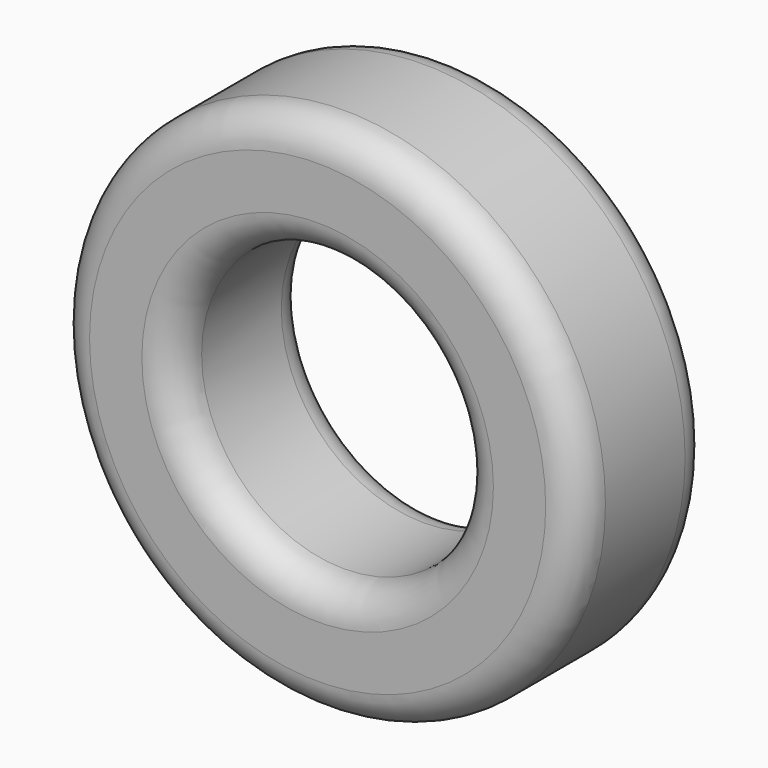
from build123d import *

# Parameters (mm, degrees)
F0_R     = 39.9958807844
F1_DEPTH = 25.4
F2_R     = 21.8277416201
F3_DEPTH = 25.4
F4_R     = 5.08
F5_R     = 5.08


with BuildPart() as f1:
    # F0 (on Front) → F1 (new body)
    with BuildSketch(Plane.XZ):
        Circle(F0_R)
    extrude(amount=F1_DEPTH)

    # F2 (on face) → F3 (cut)
    with BuildSketch(Plane.XZ.offset(25.4)):
        Circle(F2_R)
    extrude(amount=-F3_DEPTH, mode=Mode.SUBTRACT)

    # F4
    f4_edges = [f1.edges().sort_by_distance(p)[0] for p in [
        (-39.995881, -25.4, 0),
        (-21.827742, -25.4, 0),
    ]]
    fillet(f4_edges, radius=F4_R)

    # F5
    f5_edges = [f1.edges().sort_by_distance(p)[0] for p in [
        (-39.995881, 0, 0),
        (-21.827742, 0, 0),
    ]]
    fillet(f5_edges, radius=F5_R)


solid = f1.part
